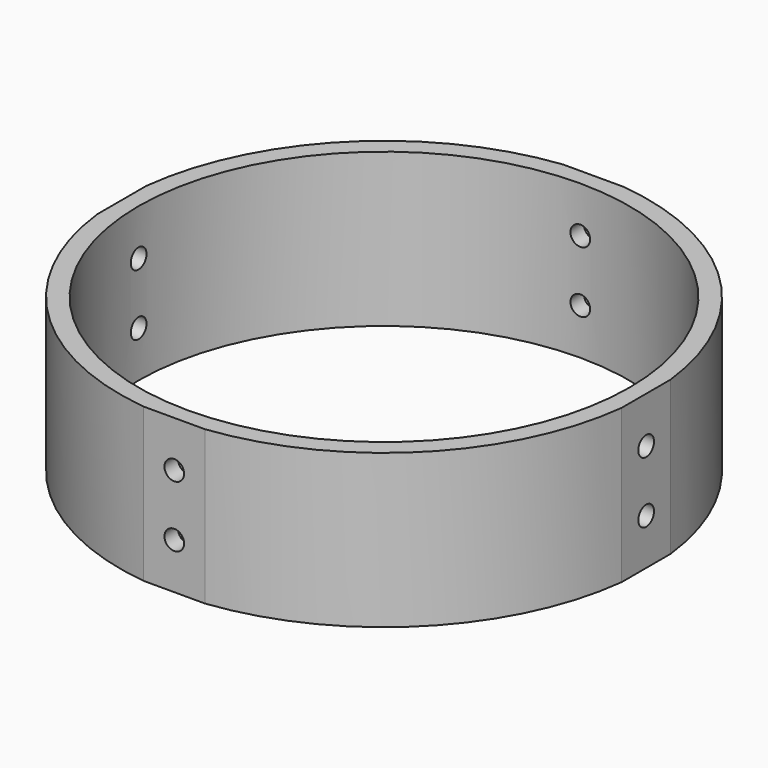
from build123d import *

# Parameters (mm, degrees)
F0_R     = 40
F1_DEPTH = 25
F2_R     = 1.6
F3_DEPTH = 85.4176260163
F4_R     = 1.6
F5_DEPTH = 85.4176260163


with BuildPart() as f1:
    # F0 (on Top) → F1 (new body)
    with BuildSketch(Plane.XY):
        with BuildLine():
            Line((42.7083130081, -5), (42.7083130081, 5))
            ThreePointArc((42.7083130081, 5), (30.405591591, 30.405591591), (5, 42.7083130081))
            Line((5, 42.7083130081), (-5, 42.7083130081))
            ThreePointArc((-5, 42.7083130081), (-30.405591591, 30.405591591), (-42.7083130081, 5))
            Line((-42.7083130081, 5), (-42.7083130081, -5))
            ThreePointArc((-42.7083130081, -5), (-30.405591591, -30.405591591), (-5, -42.7083130081))
            Line((-5, -42.7083130081), (5, -42.7083130081))
            ThreePointArc((5, -42.7083130081), (30.405591591, -30.405591591), (42.7083130081, -5))
        make_face()
        Circle(F0_R, mode=Mode.SUBTRACT)
    extrude(amount=F1_DEPTH)

    # F2 (on face) → F3 (cut, through all)
    with BuildSketch(Plane.YZ.offset(42.7083130081)):
        with Locations((0, 17.5)):
            Circle(F2_R)
        with Locations((0, 7.5)):
            Circle(F2_R)
    extrude(amount=-F3_DEPTH, mode=Mode.SUBTRACT)

    # F4 (on face) → F5 (cut, through all)
    with BuildSketch(Plane.XZ.offset(42.7083130081)):
        with Locations((0, 17.5)):
            Circle(F4_R)
        with Locations((0, 7.5)):
            Circle(F4_R)
    extrude(amount=-F5_DEPTH, mode=Mode.SUBTRACT)


solid = f1.part
